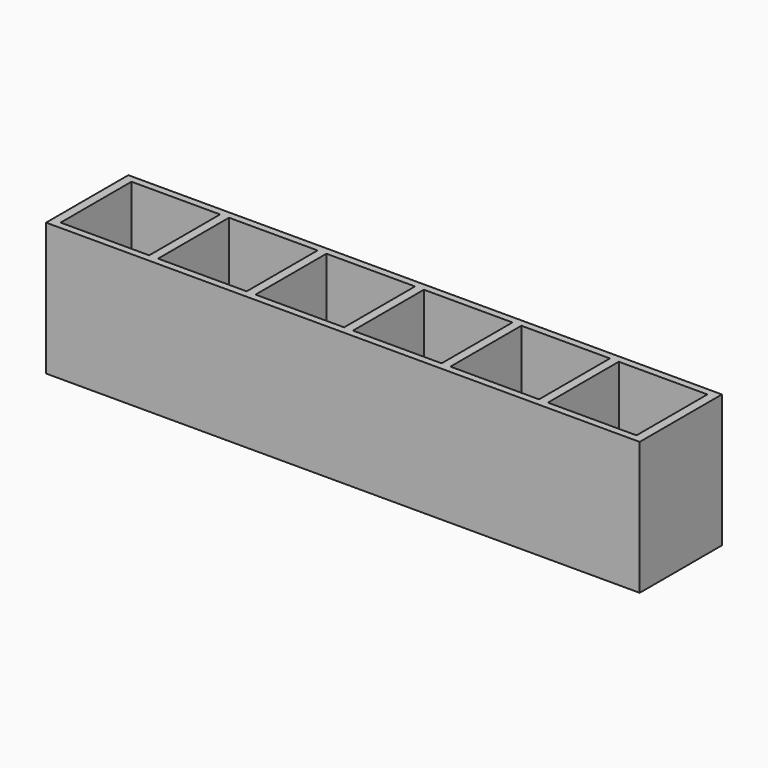
from build123d import *

# Parameters (mm, degrees)
F0_W     = 134
F0_H     = 23.2
F0_W_2   = 20
F0_H_2   = 20
F1_DEPTH = 30
F2_W     = 132
F2_H     = 10
F3_DEPTH = 4


with BuildPart() as f1:
    # F0 (on Top) → F1 (new body)
    with BuildSketch(Plane.XY):
        with Locations((1, 11.6)):
            Rectangle(F0_W, F0_H)
        with Locations((-54, 11.6)):
            Rectangle(F0_W_2, F0_H_2, mode=Mode.SUBTRACT)
        with Locations((-32, 11.6)):
            Rectangle(F0_W_2, F0_H_2, mode=Mode.SUBTRACT)
        with Locations((-10, 11.6)):
            Rectangle(F0_W_2, F0_H_2, mode=Mode.SUBTRACT)
        with Locations((12, 11.6)):
            Rectangle(F0_W_2, F0_H_2, mode=Mode.SUBTRACT)
        with Locations((34, 11.6)):
            Rectangle(F0_W_2, F0_H_2, mode=Mode.SUBTRACT)
        with Locations((56, 11.6)):
            Rectangle(F0_W_2, F0_H_2, mode=Mode.SUBTRACT)
    extrude(amount=F1_DEPTH)

    # F2 (on Top) → F3 (join)
    with BuildSketch(Plane.XY):
        with Locations((1, 11.6)):
            Rectangle(F2_W, F2_H)
    extrude(amount=F3_DEPTH)


solid = f1.part
